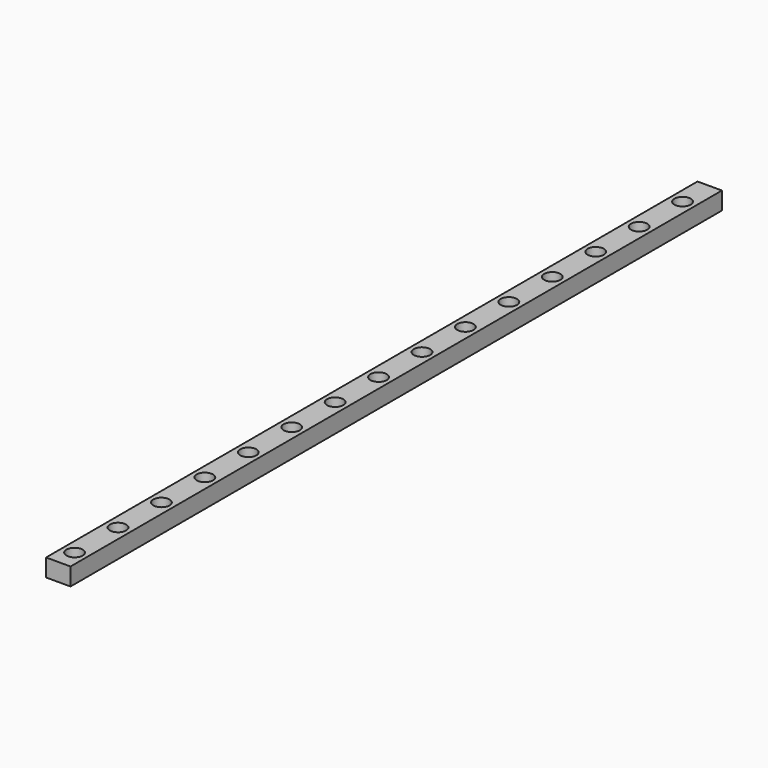
from build123d import *

# Parameters (mm, degrees)
F0_W           = 9
F0_H           = 6.5
F1_DEPTH       = 300
F3_D           = 3.5
F3_CBORE_D     = 6
F3_CBORE_DEPTH = 4.5


with BuildPart() as f1:
    # F0 (on Front) → F1 (new body)
    with BuildSketch(Plane.XZ):
        with Locations((4.5, 3.25)):
            Rectangle(F0_W, F0_H)
    extrude(amount=F1_DEPTH)

    # F3 (through all)
    with Locations(Plane.XY.offset(6.5)):
        with Locations((4.5, -292.5), (4.5, -272.5), (4.5, -252.5), (4.5, -232.5), (4.5, -212.5), (4.5, -192.5), (4.5, -172.5), (4.5, -152.5), (4.5, -132.5), (4.5, -112.5), (4.5, -92.5), (4.5, -72.5), (4.5, -52.5), (4.5, -32.5), (4.5, -12.5)):
            CounterBoreHole(F3_D / 2, F3_CBORE_D / 2, F3_CBORE_DEPTH)


solid = f1.part
